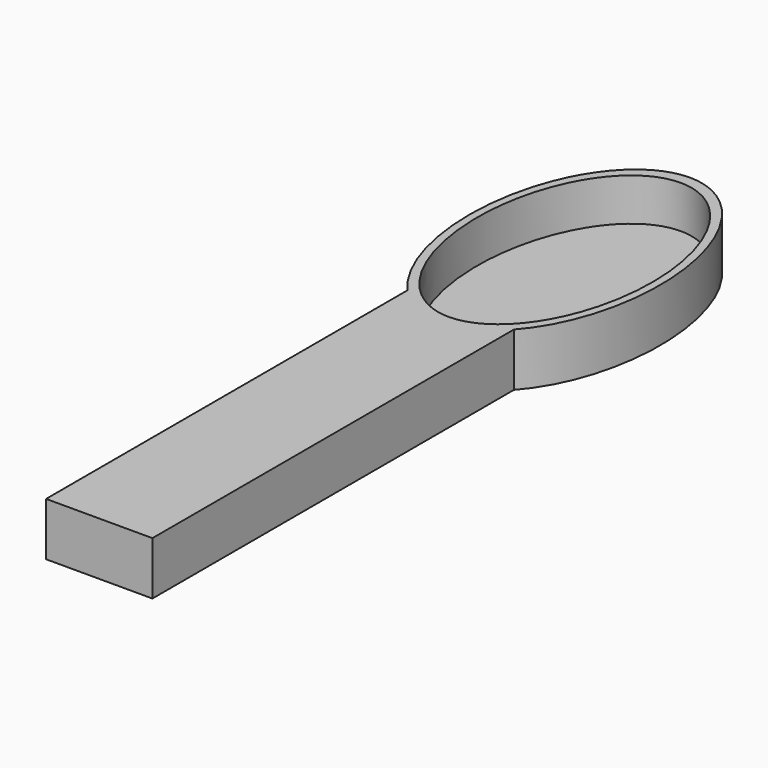
from build123d import *

# Parameters (mm, degrees)
F1_DEPTH = 12.7
F3_DEPTH = 10.16


with BuildPart() as f1:
    # F0 (on Top) → F1 (new body)
    with BuildSketch(Plane.XY):
        Polygon((-12.7, 52.793227), (-12.7, -48.806773), (12.7, -48.806773), (12.7, 52.793227), (0, 52.793227), align=None)
        with BuildLine():
            Line((-12.7, 59.142324), (-12.7, 52.793227))
            Line((-12.7, 52.793227), (0, 52.793227))
            add(Edge.make_bspline(
                [(-12.7, 59.142324), (-6.939257, 52.793227), (0, 52.793227)],
                knots=[2.550204, 2.550204, 2.550204, 3.141593, 3.141593, 3.141593], degree=2, weights=[1, 0.9566, 1]))
        make_face()
        with BuildLine():
            Line((0, 52.793227), (12.7, 52.793227))
            Line((12.7, 52.793227), (12.7, 59.142324))
            add(Edge.make_bspline(
                [(0, 52.793227), (6.939257, 52.793227), (12.7, 59.142324)],
                knots=[3.141593, 3.141593, 3.141593, 3.732982, 3.732982, 3.732982], degree=2, weights=[1, 0.9566, 1]))
        make_face()
        with BuildLine():
            add(Edge.make_bspline(
                [(-12.7, 59.142324), (-6.939257, 52.793227), (0, 52.793227)],
                knots=[2.550204, 2.550204, 2.550204, 3.141593, 3.141593, 3.141593], degree=2, weights=[1, 0.9566, 1]))
            add(Edge.make_bspline(
                [(0, 52.793227), (6.939257, 52.793227), (12.7, 59.142324)],
                knots=[3.141593, 3.141593, 3.141593, 3.732982, 3.732982, 3.732982], degree=2, weights=[1, 0.9566, 1]))
            add(Edge.make_bspline(
                [(12.7, 59.142324), (74.779348, 127.561942), (0, 127.561942)],
                knots=[3.732982, 3.732982, 3.732982, 6.283185, 6.283185, 6.283185], degree=2, weights=[1, 0.291404, 1]))
            add(Edge.make_bspline(
                [(0, 127.561942), (-74.779348, 127.561942), (-12.7, 59.142324)],
                knots=[0, 0, 0, 2.550204, 2.550204, 2.550204], degree=2, weights=[1, 0.291404, 1]))
        make_face()
    extrude(amount=F1_DEPTH)

    # F2 (on face) → F3 (cut)
    with BuildSketch(Plane.XY.offset(12.7)):
        with BuildLine():
            add(Edge.make_bspline(
                [(0, 124.843717), (-36.279402, 124.843717), (-18.139701, 72.844518), (0, 20.84532), (18.139701, 72.844518), (36.279402, 124.843717), (0, 124.843717)],
                knots=[0, 0, 0, 2.094395, 2.094395, 4.18879, 4.18879, 6.283185, 6.283185, 6.283185], degree=2, weights=[1, 0.5, 1, 0.5, 1, 0.5, 1]))
        make_face()
    extrude(amount=-F3_DEPTH, mode=Mode.SUBTRACT)


solid = f1.part
